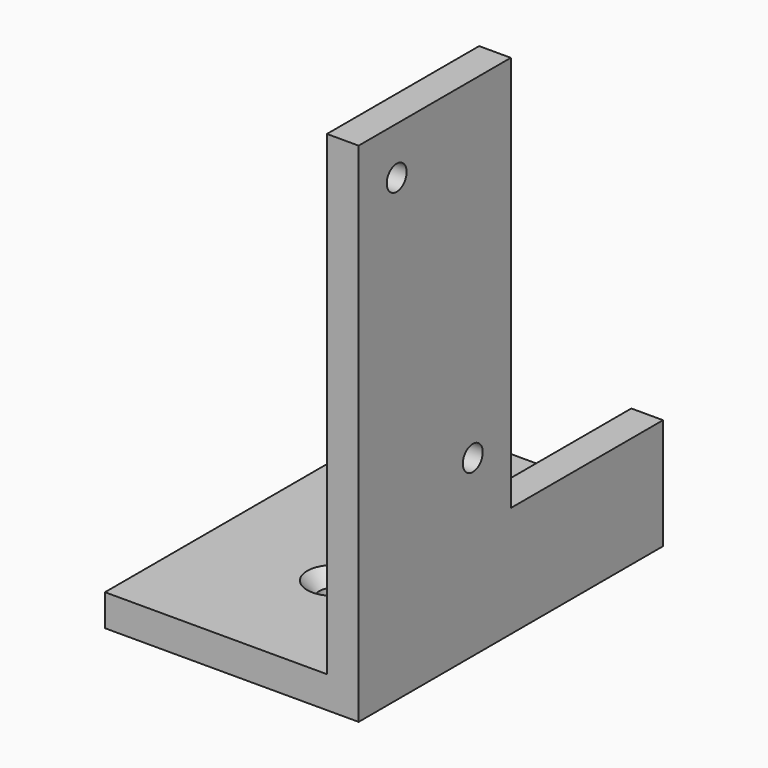
from build123d import *

# Parameters (mm, degrees)
F1_DEPTH       = 76.2
F3_D           = 4.9784
F3_CSINK_D     = 9.1186
F3_CSINK_ANGLE = 82
F5_D           = 5.6134
F5_CSINK_D     = 10.4394
F5_CSINK_ANGLE = 82
F6_W           = 38.1
F6_H           = 79.375
F7_DEPTH       = 50.801


with BuildPart() as f1:
    # F0 (on Front) → F1 (new body)
    with BuildSketch(Plane.XZ):
        Polygon((-50.8, 0), (0, 0), (0, 101.6), (-6.35, 101.6), (-6.35, 6.35), (-50.8, 6.35), align=None)
    extrude(amount=-F1_DEPTH)

    # F3 (through all)
    with Locations(Plane(origin=(-6.35, 0, 0), x_dir=(0, -1, 0), z_dir=(-1, 0, 0))):
        with Locations((-9.525, 92.075), (-28.575, 34.925)):
            CounterSinkHole(F3_D / 2, F3_CSINK_D / 2, counter_sink_angle=F3_CSINK_ANGLE)

    # F5 (through all)
    with Locations(Plane.XY.offset(6.35)):
        with Locations((-25.4, 25.4), (-27.0796256672, 50.8)):
            CounterSinkHole(F5_D / 2, F5_CSINK_D / 2, counter_sink_angle=F5_CSINK_ANGLE)

    # F6 (on face) → F7 (cut, through all)
    with BuildSketch(Plane.YZ):
        with Locations((57.15, 61.9125)):
            Rectangle(F6_W, F6_H)
    extrude(amount=-F7_DEPTH, mode=Mode.SUBTRACT)


solid = f1.part
